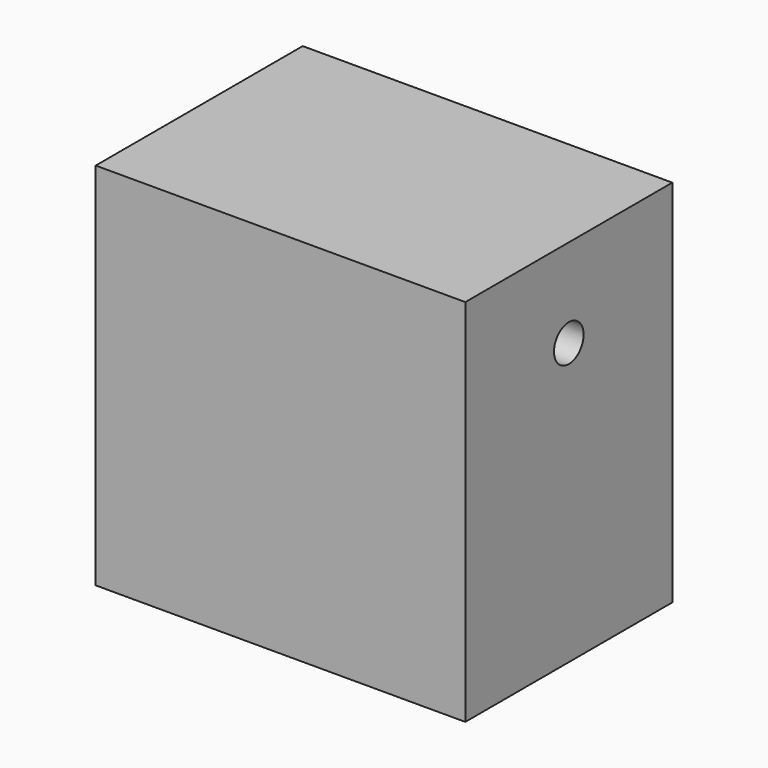
from build123d import *

# Parameters (mm, degrees)
F0_W     = 50
F0_H     = 50
F1_DEPTH = 35
F2_R     = 2.5
F3_DEPTH = 50.001


with BuildPart() as f1:
    # F0 (on Front) → F1 (new body)
    with BuildSketch(Plane.XZ):
        Rectangle(F0_W, F0_H)
    extrude(amount=F1_DEPTH)

    # F2 (on face) → F3 (cut, through all)
    with BuildSketch(Plane.YZ.offset(25)):
        with Locations((-17.5, 13)):
            Circle(F2_R)
    extrude(amount=-F3_DEPTH, mode=Mode.SUBTRACT)


solid = f1.part
